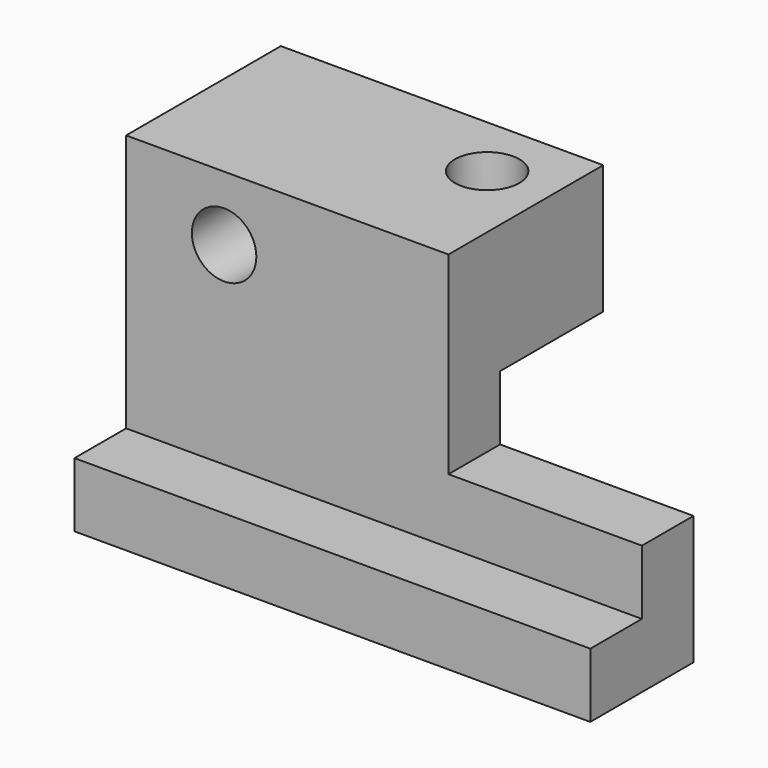
from build123d import *

# Parameters (mm, degrees)
F1_DEPTH = 6.35
F2_W     = 50.8
F2_H     = 6.35
F3_DEPTH = 6.35
F4_R     = 3.175
F5_DEPTH = 19.05
F6_R     = 3.175
F7_DEPTH = 31.751


with BuildPart() as f1:
    # F0 (on Front) → F1 (new body)
    with BuildSketch(Plane.XZ):
        Polygon((19.05, 6.35), (0, 6.35), (0, 12.7), (-31.75, 12.7), (-31.75, 0), (19.05, 0), align=None)
    extrude(amount=-F1_DEPTH)

    # F2 (on Front) → F3 (join, symmetric)
    with BuildSketch(Plane.XZ):
        with Locations((-6.35, -3.175)):
            Rectangle(F2_W, F2_H)
    extrude(amount=F3_DEPTH, both=True)

    # F4 (on Front) → F5 (join)
    with BuildSketch(Plane.XZ):
        Polygon((-21.647636, 12.7), (0, 12.7), (0, 25.4), (-31.75, 25.4), (-31.75, 12.7), align=None)
        with Locations((-22.098, 19.05)):
            Circle(F4_R, mode=Mode.SUBTRACT)
    extrude(amount=-F5_DEPTH)

    # F6 (on face) → F7 (cut, through all)
    with BuildSketch(Plane.XY.offset(25.4)):
        with Locations((-6.35, 12.7)):
            Circle(F6_R)
    extrude(amount=-F7_DEPTH, mode=Mode.SUBTRACT)


solid = f1.part
